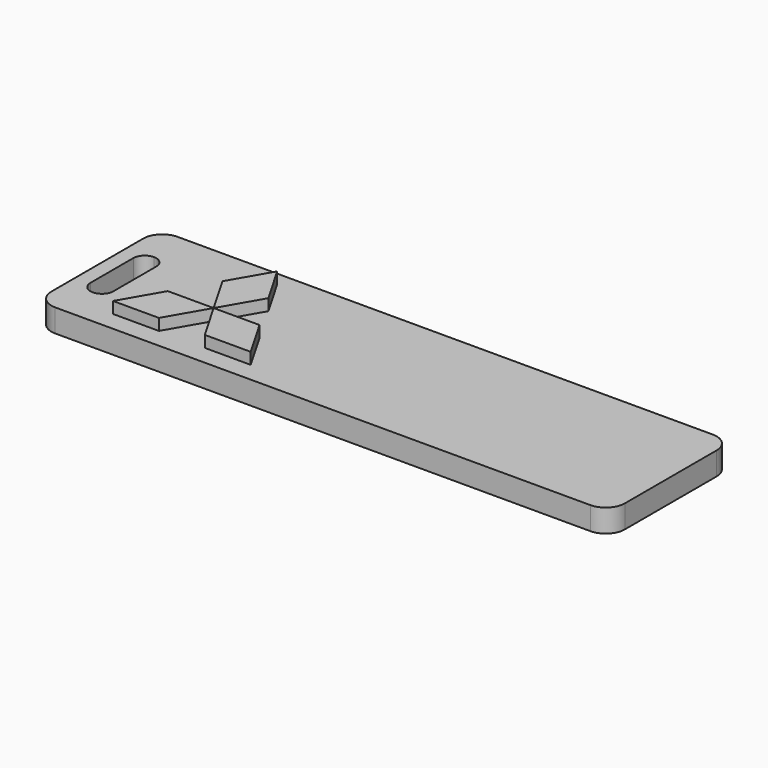
from build123d import *

# Parameters (mm, degrees)
F2_DEPTH = 3.81
F3_DEPTH = 5.715


with BuildPart() as f2:
    # F0 (on Top) → F2 (new body)
    with BuildSketch(Plane.XY):
        with BuildLine():
            Line((-44.45, -12.7), (44.45, -12.7))
            ThreePointArc((44.45, -12.7), (46.695064, -11.770064), (47.625, -9.525))
            Line((47.625, -9.525), (47.625, 9.525))
            ThreePointArc((47.625, 9.525), (46.695064, 11.770064), (44.45, 12.7))
            Line((44.45, 12.7), (-44.45, 12.7))
            ThreePointArc((-44.45, 12.7), (-46.695064, 11.770064), (-47.625, 9.525))
            Line((-47.625, 9.525), (-47.625, -9.525))
            ThreePointArc((-47.625, -9.525), (-46.695064, -11.770064), (-44.45, -12.7))
        make_face()
        with BuildLine():
            ThreePointArc((45.72, -8.89), (45.162038, -10.237038), (43.815, -10.795))
            Line((43.815, -10.795), (-43.815, -10.795))
            ThreePointArc((-43.815, -10.795), (-45.162038, -10.237038), (-45.72, -8.89))
            Line((-45.72, -8.89), (-45.72, 8.89))
            ThreePointArc((-45.72, 8.89), (-45.162038, 10.237038), (-43.815, 10.795))
            Line((-43.815, 10.795), (43.815, 10.795))
            ThreePointArc((43.815, 10.795), (45.162038, 10.237038), (45.72, 8.89))
            Line((45.72, 8.89), (45.72, -8.89))
        make_face(mode=Mode.SUBTRACT)
        with BuildLine():
            Line((-43.815, -10.795), (43.815, -10.795))
            ThreePointArc((43.815, -10.795), (45.162038, -10.237038), (45.72, -8.89))
            Line((45.72, -8.89), (45.72, 8.89))
            ThreePointArc((45.72, 8.89), (45.162038, 10.237038), (43.815, 10.795))
            Line((43.815, 10.795), (-43.815, 10.795))
            ThreePointArc((-43.815, 10.795), (-45.162038, 10.237038), (-45.72, 8.89))
            Line((-45.72, 8.89), (-45.72, -8.89))
            ThreePointArc((-45.72, -8.89), (-45.162038, -10.237038), (-43.815, -10.795))
        make_face()
        with BuildLine():
            Line((-41.391969, 4.445), (-41.391969, -4.445))
            ThreePointArc((-41.391969, -4.445), (-41.94993, -5.792038), (-43.296969, -6.35))
            ThreePointArc((-43.296969, -6.35), (-44.644007, -5.792038), (-45.201969, -4.445))
            Line((-45.201969, -4.445), (-45.201969, 4.445))
            ThreePointArc((-45.201969, 4.445), (-44.644007, 5.792038), (-43.296969, 6.35))
            ThreePointArc((-43.296969, 6.35), (-41.94993, 5.792038), (-41.391969, 4.445))
        make_face(mode=Mode.SUBTRACT)
    extrude(amount=F2_DEPTH)


with BuildPart() as f3:
    # F1 (on Top) → F3 (new body)
    with BuildSketch(Plane.XY):
        Polygon((-29.824159, 3.740004), (-26.014159, -2.85911), (-22.204159, 3.740004), (-26.014159, 10.339118), align=None)
        Polygon((-29.824159, -9.458223), (-26.014159, -2.85911), (-33.634159, -2.85911), (-37.444159, -9.458223), align=None)
        Polygon((-18.394159, -2.85911), (-26.014159, -2.85911), (-22.204159, -9.458223), (-14.584159, -9.458223), align=None)
    extrude(amount=F3_DEPTH)


solid = Compound([f2.part, f3.part])
